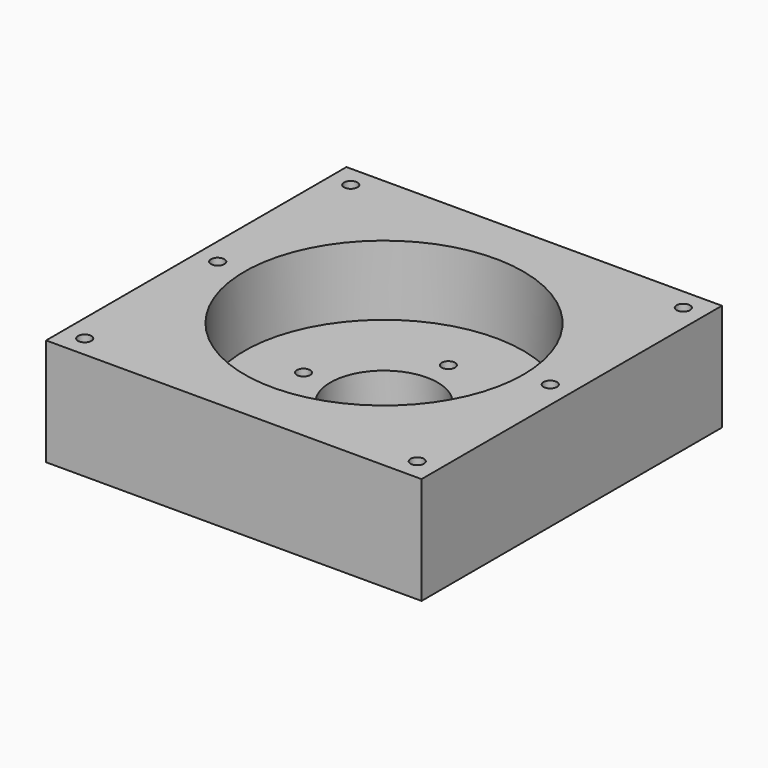
from build123d import *

# Parameters (mm, degrees)
CYLINDER009_R     = 1.25
CYLINDER009_DEPTH = 20
CYLINDER010_R     = 1.25
CYLINDER010_DEPTH = 20
CYLINDER008_R     = 1.25
CYLINDER008_DEPTH = 20
CYLINDER011_R     = 1.25
CYLINDER011_DEPTH = 20
CYLINDER007_R     = 1.25
CYLINDER007_DEPTH = 20
CYLINDER006_R     = 1.25
CYLINDER006_DEPTH = 20
CYLINDER013_R     = 3
CYLINDER013_DEPTH = 3
CYLINDER017_R     = 3
CYLINDER017_DEPTH = 3
CYLINDER014_R     = 3
CYLINDER014_DEPTH = 3
CYLINDER015_R     = 3
CYLINDER015_DEPTH = 3
CYLINDER016_R     = 3
CYLINDER016_DEPTH = 3
CYLINDER012_R     = 3
CYLINDER012_DEPTH = 3
CYLINDER003_R     = 1.25
CYLINDER003_DEPTH = 7
CYLINDER005_R     = 1.25
CYLINDER005_DEPTH = 7
CYLINDER004_R     = 1.25
CYLINDER004_DEPTH = 7
CYLINDER002_R     = 1.25
CYLINDER002_DEPTH = 7
CYLINDER001_R     = 26
CYLINDER001_DEPTH = 13
CYLINDER_R        = 10
CYLINDER_DEPTH    = 20
BOX_W             = 70
BOX_H             = 70
BOX_DEPTH         = 20


with BuildPart() as zylinder009:
    # Cylinder009 → Cylinder009 (new body)
    with BuildSketch(Plane(origin=(-31, 31, 0), x_dir=(1, 0, 0), z_dir=(0, 0, 1))):
        Circle(CYLINDER009_R)
    extrude(amount=CYLINDER009_DEPTH)


with BuildPart() as zylinder010:
    # Cylinder010 → Cylinder010 (new body)
    with BuildSketch(Plane(origin=(-31, -31, 0), x_dir=(1, 0, 0), z_dir=(0, 0, 1))):
        Circle(CYLINDER010_R)
    extrude(amount=CYLINDER010_DEPTH)


with BuildPart() as zylinder008:
    # Cylinder008 → Cylinder008 (new body)
    with BuildSketch(Plane(origin=(31, -31, 0), x_dir=(1, 0, 0), z_dir=(0, 0, 1))):
        Circle(CYLINDER008_R)
    extrude(amount=CYLINDER008_DEPTH)


with BuildPart() as zylinder011:
    # Cylinder011 → Cylinder011 (new body)
    with BuildSketch(Plane(origin=(-31, 0, 0), x_dir=(1, 0, 0), z_dir=(0, 0, 1))):
        Circle(CYLINDER011_R)
    extrude(amount=CYLINDER011_DEPTH)


with BuildPart() as zylinder007:
    # Cylinder007 → Cylinder007 (new body)
    with BuildSketch(Plane(origin=(31, 0, 0), x_dir=(1, 0, 0), z_dir=(0, 0, 1))):
        Circle(CYLINDER007_R)
    extrude(amount=CYLINDER007_DEPTH)


with BuildPart() as fusion002:
    # Cylinder006 → Cylinder006 (new body)
    with BuildSketch(Plane(origin=(31, 31, 0), x_dir=(1, 0, 0), z_dir=(0, 0, 1))):
        Circle(CYLINDER006_R)
    extrude(amount=CYLINDER006_DEPTH)

    # Fusion002: union Zylinder009, Zylinder010, Zylinder008, Zylinder011, Zylinder007
    add(zylinder009.part)
    add(zylinder010.part)
    add(zylinder008.part)
    add(zylinder011.part)
    add(zylinder007.part)


with BuildPart() as zylinder013:
    # Cylinder013 → Cylinder013 (new body)
    with BuildSketch(Plane(origin=(-31, 31, 0), x_dir=(1, 0, 0), z_dir=(0, 0, 1))):
        Circle(CYLINDER013_R)
    extrude(amount=CYLINDER013_DEPTH)


with BuildPart() as zylinder017:
    # Cylinder017 → Cylinder017 (new body)
    with BuildSketch(Plane(origin=(-31, 0, 0), x_dir=(1, 0, 0), z_dir=(0, 0, 1))):
        Circle(CYLINDER017_R)
    extrude(amount=CYLINDER017_DEPTH)


with BuildPart() as zylinder014:
    # Cylinder014 → Cylinder014 (new body)
    with BuildSketch(Plane(origin=(-31, -31, 0), x_dir=(1, 0, 0), z_dir=(0, 0, 1))):
        Circle(CYLINDER014_R)
    extrude(amount=CYLINDER014_DEPTH)


with BuildPart() as zylinder015:
    # Cylinder015 → Cylinder015 (new body)
    with BuildSketch(Plane(origin=(31, -31, 0), x_dir=(1, 0, 0), z_dir=(0, 0, 1))):
        Circle(CYLINDER015_R)
    extrude(amount=CYLINDER015_DEPTH)


with BuildPart() as zylinder016:
    # Cylinder016 → Cylinder016 (new body)
    with BuildSketch(Plane(origin=(31, 0, 0), x_dir=(1, 0, 0), z_dir=(0, 0, 1))):
        Circle(CYLINDER016_R)
    extrude(amount=CYLINDER016_DEPTH)


with BuildPart() as fusion003:
    # Cylinder012 → Cylinder012 (new body)
    with BuildSketch(Plane(origin=(31, 31, 0), x_dir=(1, 0, 0), z_dir=(0, 0, 1))):
        Circle(CYLINDER012_R)
    extrude(amount=CYLINDER012_DEPTH)

    # Fusion001: union Zylinder013, Zylinder017, Zylinder014, Zylinder015, Zylinder016
    add(zylinder013.part)
    add(zylinder017.part)
    add(zylinder014.part)
    add(zylinder015.part)
    add(zylinder016.part)

    # Fusion003: union Fusion002
    add(fusion002.part)


with BuildPart() as zylinder003:
    # Cylinder003 → Cylinder003 (new body)
    with BuildSketch(Plane(origin=(-15, 0, 0), x_dir=(1, 0, 0), z_dir=(0, 0, 1))):
        Circle(CYLINDER003_R)
    extrude(amount=CYLINDER003_DEPTH)


with BuildPart() as zylinder005:
    # Cylinder005 → Cylinder005 (new body)
    with BuildSketch(Plane(origin=(0, -15, 0), x_dir=(1, 0, 0), z_dir=(0, 0, 1))):
        Circle(CYLINDER005_R)
    extrude(amount=CYLINDER005_DEPTH)


with BuildPart() as zylinder004:
    # Cylinder004 → Cylinder004 (new body)
    with BuildSketch(Plane(origin=(0, 15, 0), x_dir=(1, 0, 0), z_dir=(0, 0, 1))):
        Circle(CYLINDER004_R)
    extrude(amount=CYLINDER004_DEPTH)


with BuildPart() as fusion:
    # Cylinder002 → Cylinder002 (new body)
    with BuildSketch(Plane(origin=(15, 0, 0), x_dir=(1, 0, 0), z_dir=(0, 0, 1))):
        Circle(CYLINDER002_R)
    extrude(amount=CYLINDER002_DEPTH)

    # Fusion: union Zylinder003, Zylinder005, Zylinder004
    add(zylinder003.part)
    add(zylinder005.part)
    add(zylinder004.part)


with BuildPart() as zylinder001:
    # Cylinder001 → Cylinder001 (new body)
    with BuildSketch(Plane.XY.offset(7)):
        Circle(CYLINDER001_R)
    extrude(amount=CYLINDER001_DEPTH)


with BuildPart() as zylinder:
    # Cylinder → Cylinder (new body)
    with BuildSketch(Plane.XY):
        Circle(CYLINDER_R)
    extrude(amount=CYLINDER_DEPTH)


with BuildPart() as cut003:
    # Box → Box (new body)
    with BuildSketch(Plane(origin=(-35, -35, 0), x_dir=(1, 0, 0), z_dir=(0, 0, 1))):
        with Locations((35, 35)):
            Rectangle(BOX_W, BOX_H)
    extrude(amount=BOX_DEPTH)

    # Cut: cut Zylinder
    add(zylinder.part, mode=Mode.SUBTRACT)

    # Cut001: cut Zylinder001
    add(zylinder001.part, mode=Mode.SUBTRACT)

    # Cut002: cut Fusion
    add(fusion.part, mode=Mode.SUBTRACT)

    # Cut003: cut Fusion003
    add(fusion003.part, mode=Mode.SUBTRACT)


solid = cut003.part
